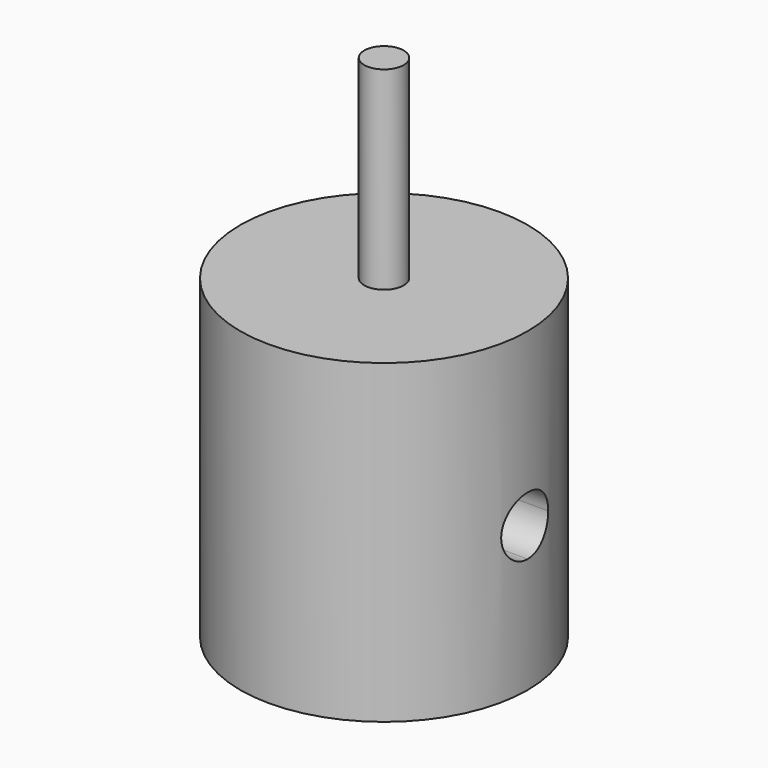
from build123d import *

# Parameters (mm, degrees)
F0_R     = 5.7785
F1_DEPTH = 12.7
F2_R     = 5.08
F3_DEPTH = 2.3622
F5_DEPTH = 7.0104
F7_DEPTH = 12.7
F8_R     = 0.79375
F9_DEPTH = 7.7978


with BuildPart() as f1:
    # F0 (on Top) → F1 (new body)
    with BuildSketch(Plane.XY):
        Circle(F0_R)
    extrude(amount=F1_DEPTH)

    # F2 (on face) → F3 (cut)
    with BuildSketch(Plane(origin=(0, 0, 0), x_dir=(1, 0, 0), z_dir=(0, 0, -1))):
        Circle(F2_R)
    extrude(amount=-F3_DEPTH, mode=Mode.SUBTRACT)

    # F4 (on face) → F5 (cut)
    with BuildSketch(Plane(origin=(0, 0, 2.3622), x_dir=(1, 0, 0), z_dir=(0, 0, -1))):
        with BuildLine():
            Line((2.3622, -2.0447), (2.3622, 2.0447))
            ThreePointArc((2.3622, 2.0447), (1.670328, 3.715028), (0, 4.4069))
            ThreePointArc((0, 4.4069), (-1.670328, 3.715028), (-2.3622, 2.0447))
            Line((-2.3622, 2.0447), (-2.3622, -2.0447))
            ThreePointArc((-2.3622, -2.0447), (-1.670328, -3.715028), (0, -4.4069))
            ThreePointArc((0, -4.4069), (1.670328, -3.715028), (2.3622, -2.0447))
        make_face()
    extrude(amount=-F5_DEPTH, mode=Mode.SUBTRACT)

    # F6 (on Right) → F7 (cut, symmetric)
    with BuildSketch(Plane.YZ):
        with BuildLine():
            ThreePointArc((0, 4.6355), (0.835164, 4.981436), (1.1811, 5.8166))
            ThreePointArc((1.1811, 5.8166), (-0.835164, 6.651764), (0, 4.6355))
        make_face()
    extrude(amount=F7_DEPTH, both=True, mode=Mode.SUBTRACT)

    # F8 (on face) → F9 (join)
    with BuildSketch(Plane.XY.offset(12.7)):
        Circle(F8_R)
    extrude(amount=F9_DEPTH)


solid = f1.part
